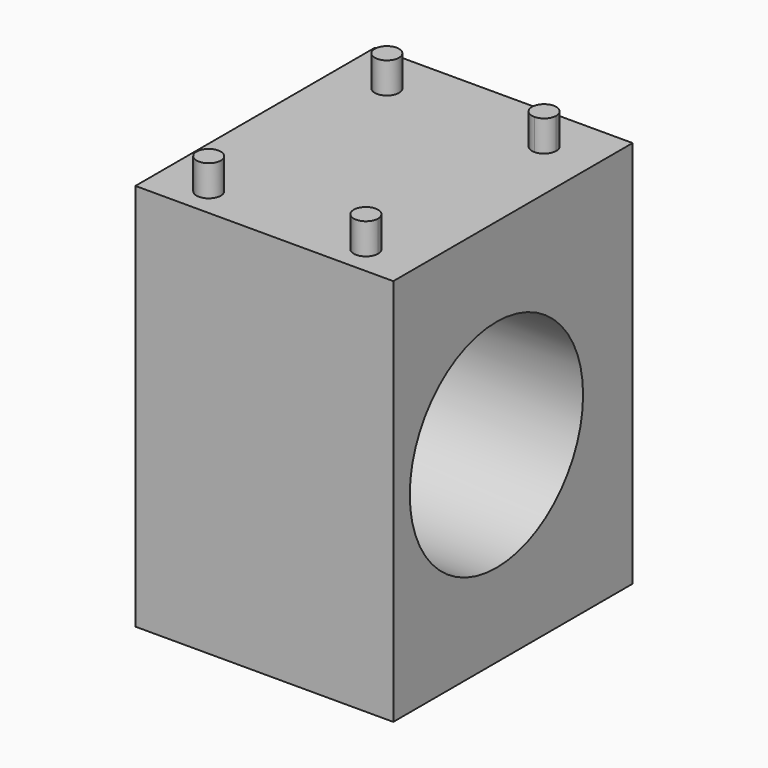
from build123d import *

# Parameters (mm, degrees)
F1_DEPTH = 12.5
F2_R     = 1.175
F3_DEPTH = 3
F4_W     = 15
F4_H     = 15
F5_DEPTH = 2.5
F6_W     = 12
F6_H     = 15
F7_DEPTH = 4.5


with BuildPart() as f1:
    # F0 (on Right) → F1 (new body, symmetric)
    with BuildSketch(Plane.YZ):
        with BuildLine():
            Line((16.5, 0), (10.5, 0))
            ThreePointArc((10.5, 0), (0, -10.5), (-10.5, 0))
            Line((-10.5, 0), (-12.5, 0))
            Line((-12.5, 0), (-12.5, -18.566574))
            Line((-12.5, -18.566574), (-1.889947, -18.566574))
            Line((-1.889947, -18.566574), (16.5, -18.566574))
            Line((16.5, -18.566574), (16.5, 0))
        make_face()
        with BuildLine():
            ThreePointArc((-10.5, 0), (0, 10.5), (10.5, 0))
            Line((10.5, 0), (16.5, 0))
            Line((16.5, 0), (16.5, 19.05242))
            Line((16.5, 19.05242), (-12.5, 19.05242))
            Line((-12.5, 19.05242), (-12.5, 0))
            Line((-12.5, 0), (-10.5, 0))
        make_face()
    extrude(amount=F1_DEPTH, both=True)

    # F2 (on face) → F3 (join)
    with BuildSketch(Plane.XY.offset(19.05242)):
        with Locations((-7.62, -9.7155)):
            Circle(F2_R)
        with BuildLine():
            ThreePointArc((7.62, -8.5405), (6.78915, -10.54635), (8.795, -9.7155))
            ThreePointArc((8.795, -9.7155), (8.45085, -8.88465), (7.62, -8.5405))
        make_face()
        with BuildLine():
            ThreePointArc((8.795, 11.8745), (6.78915, 12.70535), (7.62, 10.6995))
            ThreePointArc((7.62, 10.6995), (8.45085, 11.04365), (8.795, 11.8745))
        make_face()
        with Locations((-7.62, 11.8745)):
            Circle(F2_R)
    extrude(amount=F3_DEPTH)

    # F4 (on face) → F5 (cut)
    with BuildSketch(Plane(origin=(0, 0, -18.566574), x_dir=(1, 0, 0), z_dir=(0, 0, -1))):
        with Locations((0.837269, 0)):
            Rectangle(F4_W, F4_H)
    extrude(amount=-F5_DEPTH, mode=Mode.SUBTRACT)

    # F6 (on face) → F7 (cut)
    with BuildSketch(Plane(origin=(0, 16.5, 0), x_dir=(-1, 0, 0), z_dir=(0, 1, 0))):
        with Locations((0.127016, -1.779968)):
            Rectangle(F6_W, F6_H)
    extrude(amount=-F7_DEPTH, mode=Mode.SUBTRACT)


solid = f1.part
